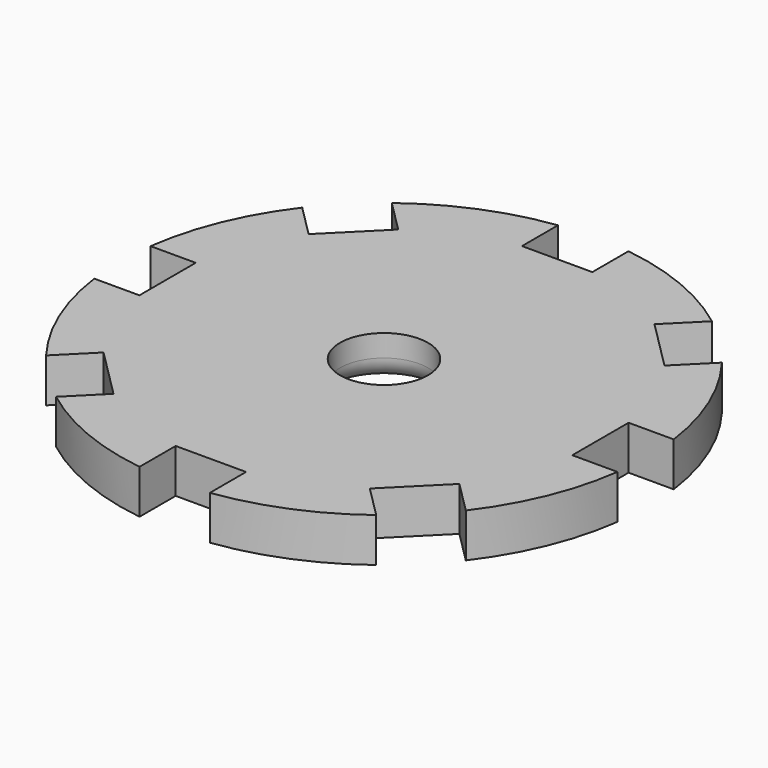
from build123d import *

# Parameters (mm, degrees)
SKETCH005_R           = 12
PAD002_DEPTH          = 2
SKETCH004_W           = 2.57
SKETCH004_H           = 3.2
POCKET003_DEPTH       = 5
POLARPATTERN001_COUNT = 8
SKETCH006_R           = 2
POCKET002_DEPTH       = 6
FILLET001_R           = 1


with BuildPart() as part:
    # Sketch005 → Pad002 (new body)
    with BuildSketch(Plane.XY.offset(28.5)):
        Circle(SKETCH005_R)
    extrude(amount=PAD002_DEPTH)

    # Sketch004 (on Face3 of Pad002) → Pocket003 (cut)
    with BuildSketch(Plane.XY.offset(30.5)):
        with Locations((11.125, 0)):
            Rectangle(SKETCH004_W, SKETCH004_H)
    pocket003 = extrude(amount=-POCKET003_DEPTH, mode=Mode.SUBTRACT)

    # PolarPattern001: Pocket003 ×8 about axis
    polarpattern001_axis = Axis((0, 0, 30.5), (0, 0, 1))
    for i in range(1, POLARPATTERN001_COUNT):
        add(pocket003.rotate(polarpattern001_axis, i * 360 / POLARPATTERN001_COUNT), mode=Mode.SUBTRACT)

    # Sketch006 (on Face4 of PolarPattern001) → Pocket002 (cut)
    with BuildSketch(Plane.XY.offset(30.5)):
        Circle(SKETCH006_R)
    extrude(amount=-POCKET002_DEPTH, mode=Mode.SUBTRACT)

    # Fillet001
    fillet001_edges = [part.edges().sort_by_distance(p)[0] for p in [
        (-2, 0, 28.5),
    ]]
    fillet(fillet001_edges, radius=FILLET001_R)


with BuildPart() as part_1:
    # Body002 placement: moved
    add(part.part.moved(Location((0, 0, -60))))


solid = part_1.part
